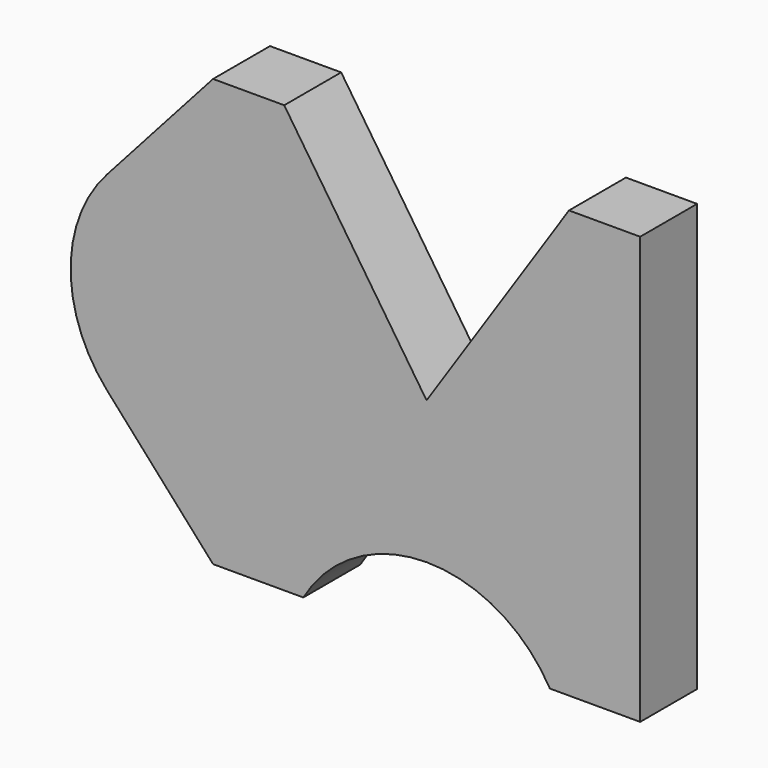
from build123d import *

# Parameters (mm, degrees)
F1_DEPTH = 25.4


with BuildPart() as f1:
    # F0 (on Front) → F1 (new body)
    with BuildSketch(Plane.XZ):
        with BuildLine():
            Line((-50.8, 76.2), (-76.2, 76.2))
            Line((-76.2, 76.2), (-114.064084, 33.866667))
            ThreePointArc((-114.064084, 33.866667), (-127, 0), (-114.064084, -33.866667))
            Line((-114.064084, -33.866667), (-76.2, -76.2))
            Line((-76.2, -76.2), (-43.994091, -76.2))
            ThreePointArc((-43.994091, -76.2), (0, -50.8), (43.994091, -76.2))
            Line((43.994091, -76.2), (76.2, -76.2))
            Line((76.2, -76.2), (76.2, 76.2))
            Line((76.2, 76.2), (50.8, 76.2))
            Line((50.8, 76.2), (0, 0))
            Line((0, 0), (-50.8, 76.2))
        make_face()
    extrude(amount=F1_DEPTH)


solid = f1.part
